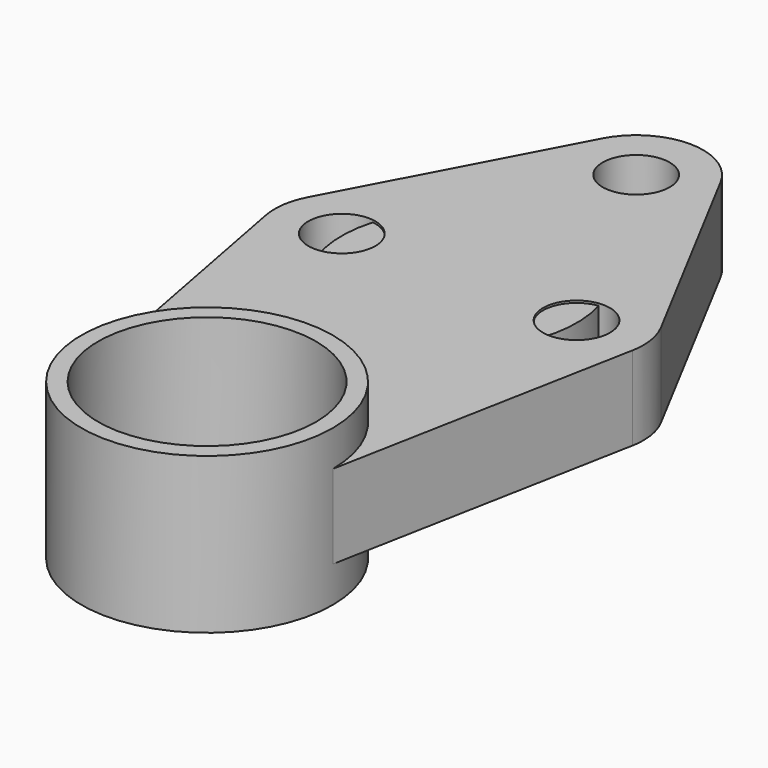
from build123d import *

# Parameters (mm, degrees)
F0_R     = 22.2885
F0_R_2   = 9.5377
F1_DEPTH = 7.5311
F4_DEPTH = 28.575
F5_R     = 6.35
F6_DEPTH = 7.9375
F5_R_2   = 20.6375
F7_DEPTH = 14.7447


with BuildPart() as f1:
    # F0 (on Top) → F1 (new body, symmetric)
    with BuildSketch(Plane.XY):
        Circle(F0_R)
        Circle(F0_R_2, mode=Mode.SUBTRACT)
    extrude(amount=F1_DEPTH, both=True)

    # F3 (on Front) → F4 (join)
    with BuildSketch(Plane.XZ):
        Polygon((-5.8316513776, 0), (-5.8316513776, -7.5311), (5.8316513776, -7.5311), (5.8316513776, 0), (0, 0), align=None)
        Polygon((-5.8316513776, 7.5311), (-5.8316513776, 0), (0, 0), (5.8316513776, 0), (5.8316513776, 7.5311), align=None)
    extrude(amount=F4_DEPTH)


with BuildPart() as f6:
    # F5 (on Top) → F6 (new body, symmetric)
    with BuildSketch(Plane.XY):
        with BuildLine():
            ThreePointArc((-23.8125, -59.69), (0, -35.8775), (23.8125, -59.69))
            Line((23.8125, -59.69), (34.7018463097, -2.3702966407))
            ThreePointArc((34.7018463097, -2.3702966407), (9.667471368, -1.8969645902), (33.4449686963, 5.9499833995))
            Line((33.4449686963, 5.9499833995), (11.2199686963, 47.8599833995))
            ThreePointArc((11.2199686963, 47.8599833995), (12.3244391849, 44.9756481825), (12.7, 41.91))
            ThreePointArc((12.7, 41.91), (-3.0656481825, 29.5855608151), (-11.2199686963, 47.8599833995))
            Line((-11.2199686963, 47.8599833995), (-33.4449686963, 5.9499833995))
            ThreePointArc((-33.4449686963, 5.9499833995), (-19.1593518175, 12.3244391849), (-9.525, 0))
            ThreePointArc((-9.525, 0), (-21.0346110158, -12.6440885028), (-34.7018463097, -2.3702966407))
            Line((-34.7018463097, -2.3702966407), (-23.8125, -59.69))
        make_face()
        with BuildLine():
            ThreePointArc((-33.4449686963, 5.9499833995), (-34.782528632, 1.8969645902), (-34.7018463097, -2.3702966407))
            ThreePointArc((-34.7018463097, -2.3702966407), (-21.0346110158, -12.6440885028), (-9.525, 0))
            ThreePointArc((-9.525, 0), (-19.1593518175, 12.3244391849), (-33.4449686963, 5.9499833995))
        make_face()
        with Locations((-22.225, 0)):
            Circle(F5_R, mode=Mode.SUBTRACT)
        with BuildLine():
            ThreePointArc((33.4449686963, 5.9499833995), (9.667471368, -1.8969645902), (34.7018463097, -2.3702966407))
            ThreePointArc((34.7018463097, -2.3702966407), (34.8690885028, -1.1903889842), (34.925, 0))
            ThreePointArc((34.925, 0), (34.5494391849, 3.0656481825), (33.4449686963, 5.9499833995))
        make_face()
        with Locations((22.225, 0)):
            Circle(F5_R, mode=Mode.SUBTRACT)
        with BuildLine():
            ThreePointArc((12.7, 41.91), (12.3244391849, 44.9756481825), (11.2199686963, 47.8599833995))
            ThreePointArc((11.2199686963, 47.8599833995), (0, 54.61), (-11.2199686963, 47.8599833995))
            ThreePointArc((-11.2199686963, 47.8599833995), (-3.0656481825, 29.5855608151), (12.7, 41.91))
        make_face()
        with Locations((0, 41.91)):
            Circle(F5_R, mode=Mode.SUBTRACT)
    extrude(amount=F6_DEPTH, both=True)


with BuildPart() as f7:
    # F5 (on Top) → F7 (new body, symmetric)
    with BuildSketch(Plane.XY):
        with BuildLine():
            ThreePointArc((-23.8125, -59.69), (0, -83.5025), (23.8125, -59.69))
            ThreePointArc((23.8125, -59.69), (0, -35.8775), (-23.8125, -59.69))
        make_face()
        with Locations((0, -59.69)):
            Circle(F5_R_2, mode=Mode.SUBTRACT)
    extrude(amount=F7_DEPTH, both=True)


solid = Compound([f1.part, f6.part, f7.part])
